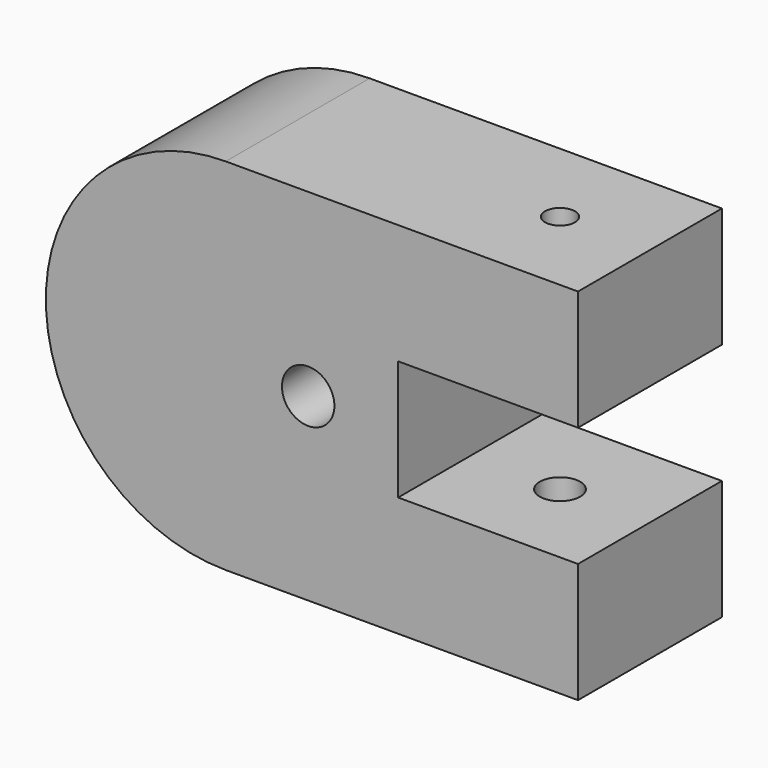
from build123d import *

# Parameters (mm, degrees)
F1_DEPTH = 76.2
F3_D     = 17.145
F3_DEPTH = 50.8
F3_TIP   = 5.1508776566
F5_D     = 12.7
F5_DEPTH = 50.8
F5_TIP   = 3.8154649308
F7_D     = 22.225


with BuildPart() as f1:
    # F0 (on Front) → F1 (new body)
    with BuildSketch(Plane.XZ):
        Polygon((-149.225, 0), (0, 0), (0, 50.8), (-76.2, 50.8), (-76.2, 101.6), (0, 101.6), (0, 152.4), (-149.225, 152.4), align=None)
        with BuildLine():
            ThreePointArc((-149.225, 152.4), (-225.425, 76.2), (-149.225, 0))
            Line((-149.225, 0), (-149.225, 152.4))
        make_face()
    extrude(amount=F1_DEPTH)

    # F3
    with Locations(Plane(origin=(0, 0, 0), x_dir=(1, 0, 0), z_dir=(0, 0, -1))):
        with Locations((-38.1, 38.1)):
            Hole(F3_D / 2, depth=F3_DEPTH)
            with Locations((0, 0, -(F3_DEPTH + F3_TIP / 2))):  # 118° drill point
                Cone(0, F3_D / 2, F3_TIP, mode=Mode.SUBTRACT)

    # F5
    with Locations(Plane.XY.offset(152.4)):
        with Locations((-38.1, -38.1)):
            Hole(F5_D / 2, depth=F5_DEPTH)
            with Locations((0, 0, -(F5_DEPTH + F5_TIP / 2))):  # 118° drill point
                Cone(0, F5_D / 2, F5_TIP, mode=Mode.SUBTRACT)

    # F7 (through all)
    with Locations(Plane(origin=(0, 0, 0), x_dir=(-1, 0, 0), z_dir=(0, 1, 0))):
        with Locations((114.3, 76.2)):
            Hole(F7_D / 2)


solid = f1.part
